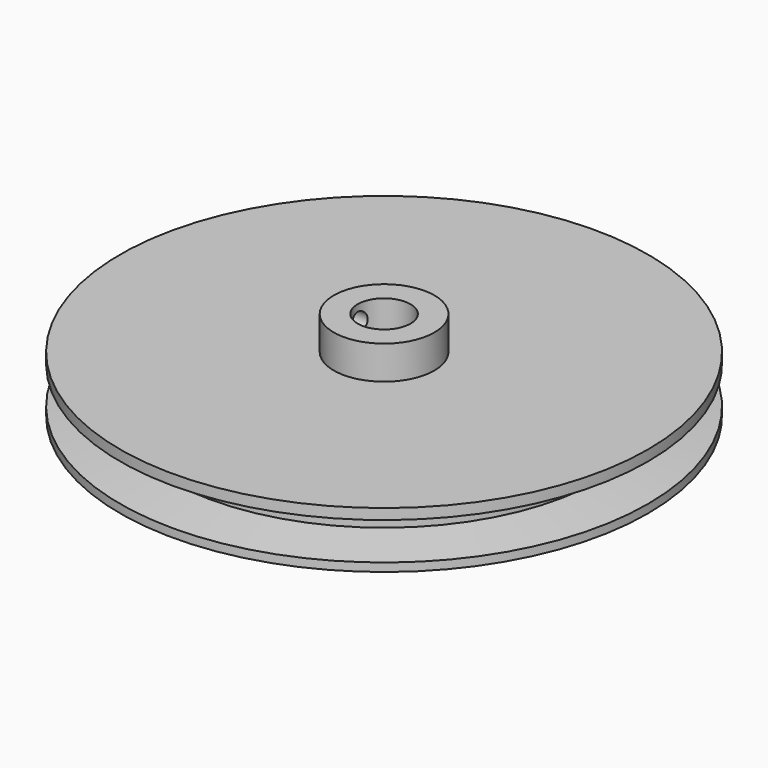
from build123d import *

# Parameters (mm, degrees)
F0_R     = 50
F1_DEPTH = 10.668
F2_R     = 9.525
F3_DEPTH = 6.35
F4_R     = 1.905
F5_DEPTH = 25.4
F6_R     = 5
F7_DEPTH = 101.6


with BuildPart() as f1:
    # F0 (on Top) → F1 (new body)
    with BuildSketch(Plane.XY):
        Circle(F0_R)
    extrude(amount=F1_DEPTH)

    # F2 (on face) → F3 (join)
    with BuildSketch(Plane.XY.offset(10.668)):
        Circle(F2_R)
    extrude(amount=F3_DEPTH)

    # F4 (on Right) → F5 (cut)
    with BuildSketch(Plane.YZ):
        with Locations((0, 13.843)):
            Circle(F4_R)
    extrude(amount=-F5_DEPTH, mode=Mode.SUBTRACT)

    # F6 (on face) → F7 (cut)
    with BuildSketch(Plane(origin=(0, 0, 0), x_dir=(1, 0, 0), z_dir=(0, 0, -1))):
        Circle(F6_R)
    extrude(amount=-F7_DEPTH, mode=Mode.SUBTRACT)

    # F8 (on Right) → F9 (revolve, cut)
    with BuildSketch(Plane.YZ):
        with BuildLine():
            Line((-50.066398, 8.67579), (-50.066398, 7.502463))
            ThreePointArc((-50.066398, 7.502463), (-51.774357, 5.118554), (-50.042302, 2.752094))
            Line((-50.042302, 2.752094), (-50.042302, 1.583694))
            Line((-50.042302, 1.583694), (-41.154411, 2.780473))
            Line((-41.154411, 2.780473), (-41.154411, 7.307734))
            Line((-41.154411, 7.307734), (-50.066398, 8.67579))
        make_face()
    revolve(axis=Axis((0, 0, 17.018), (0, 0, 1)), mode=Mode.SUBTRACT)


solid = f1.part
